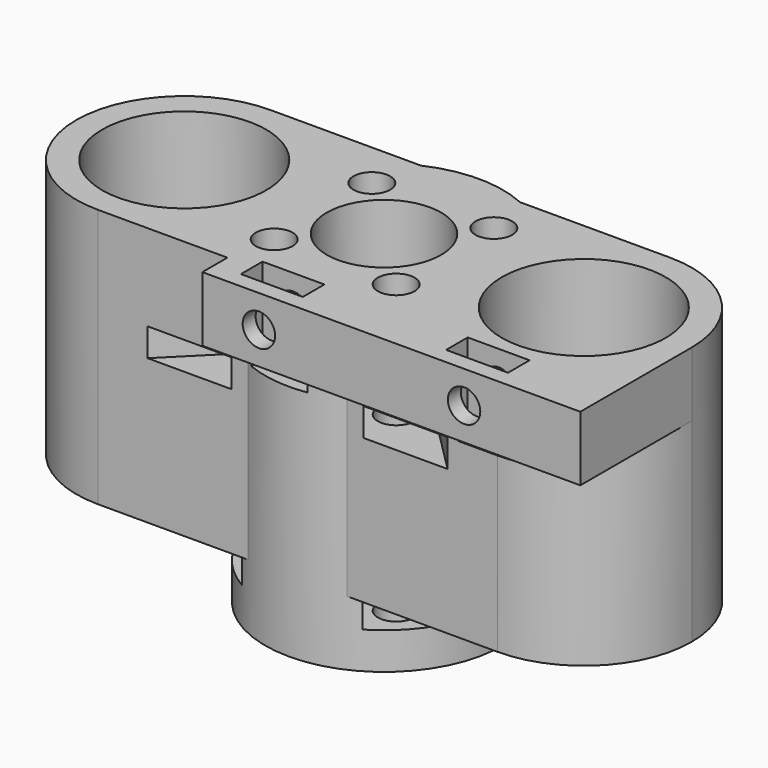
from build123d import *

# Parameters (mm, degrees)
PAD011_DEPTH            = 24
SKETCH036_R             = 5.3
SKETCH036_R_2           = 1.7
POCKET021_DEPTH         = 0.001
POCKET021_DEPTH_BACK    = 24.001
SKETCH034_R             = 11
SKETCH034_R_2           = 5.3
SKETCH034_R_3           = 1.7
PAD012_DEPTH            = 30
SKETCH039_R             = 7.6
SKETCH039_R_2           = 5.3
SKETCH039_R_3           = 1.7
POCKET022_DEPTH         = 30.001
POCKET022_DEPTH_BACK    = 0.001
PAD018_DEPTH            = 6
SKETCH041_W             = 5.73
SKETCH041_H             = 2.5
POCKET023_DEPTH         = 8
SKETCH042_R             = 1.5
POCKET024_DEPTH         = 12.901
POCKET025_DEPTH         = 2.6
LINEARPATTERN_COUNT     = 2
LINEARPATTERN_PITCH     = 16
BODY006_PITCH_ANGLE     = 90
BODY006_PLACEMENT_ANGLE = 90


with BuildPart() as part:
    # Sketch035 → Pad011 (new body)
    with BuildSketch(Plane.YZ):
        with BuildLine():
            Line((-18.499997, 10), (18.500003, 10))
            ThreePointArc((18.500003, -10), (28.500003, 0), (18.500003, 10))
            Line((18.500003, -10), (6.499997, -10))
            Line((-18.499997, -10), (6.499997, -10))
            ThreePointArc((-28.500003, 0), (-25.571069, -7.07107), (-18.499997, -10))
            ThreePointArc((-18.499997, 10), (-25.571069, 7.07107), (-28.500003, 0))
        make_face()
    extrude(amount=PAD011_DEPTH)

    # Sketch036 → Pocket021 (cut, two sides)
    with BuildSketch(Plane.YZ) as pocket021_sk:
        Circle(SKETCH036_R)
        with Locations((-5.65, 5.65)):
            Circle(SKETCH036_R_2)
        with Locations((5.65, 5.65)):
            Circle(SKETCH036_R_2)
        with Locations((5.65, -5.65)):
            Circle(SKETCH036_R_2)
        with Locations((-5.65, -5.65)):
            Circle(SKETCH036_R_2)
    extrude(amount=-POCKET021_DEPTH, mode=Mode.SUBTRACT)
    extrude(pocket021_sk.sketch, amount=POCKET021_DEPTH_BACK, mode=Mode.SUBTRACT)

    # Sketch034 → Pad012 (join)
    with BuildSketch(Plane.YZ):
        Circle(SKETCH034_R)
        Circle(SKETCH034_R_2, mode=Mode.SUBTRACT)
        with Locations((-5.65, 5.65)):
            Circle(SKETCH034_R_3, mode=Mode.SUBTRACT)
        with Locations((5.65, 5.65)):
            Circle(SKETCH034_R_3, mode=Mode.SUBTRACT)
        with Locations((5.65, -5.65)):
            Circle(SKETCH034_R_3, mode=Mode.SUBTRACT)
        with Locations((-5.65, -5.65)):
            Circle(SKETCH034_R_3, mode=Mode.SUBTRACT)
    extrude(amount=PAD012_DEPTH)

    # Sketch039 → Pocket022 (cut, two sides)
    with BuildSketch(Plane.YZ) as pocket022_sk:
        with Locations((18.500003, 0)):
            Circle(SKETCH039_R)
        with Locations((-18.500003, 0)):
            Circle(SKETCH039_R)
        Circle(SKETCH039_R_2)
        with Locations((-5.65, 5.65)):
            Circle(SKETCH039_R_3)
        with Locations((5.65, 5.65)):
            Circle(SKETCH039_R_3)
        with Locations((5.65, -5.65)):
            Circle(SKETCH039_R_3)
        with Locations((-5.65, -5.65)):
            Circle(SKETCH039_R_3)
    extrude(amount=POCKET022_DEPTH, mode=Mode.SUBTRACT)
    extrude(pocket022_sk.sketch, amount=-POCKET022_DEPTH_BACK, mode=Mode.SUBTRACT)

    # Sketch040 → Pad018 (join)
    with BuildSketch(Plane.YZ):
        with BuildLine():
            Line((-28.500003, 0), (-28.500003, -12.9))
            Line((-28.500003, -12.9), (6.499997, -12.9))
            Line((6.499997, -12.9), (6.499997, -10))
            Line((-18.499997, -10), (6.499997, -10))
            ThreePointArc((-28.500003, 0), (-25.571069, -7.07107), (-18.499997, -10))
        make_face()
    extrude(amount=PAD018_DEPTH)

    # Sketch041 → Pocket023 (cut)
    with BuildSketch(Plane.YZ):
        with Locations((-17.735003, -10.15)):
            Rectangle(SKETCH041_W, SKETCH041_H)
        with Locations((1.264997, -10.15)):
            Rectangle(SKETCH041_W, SKETCH041_H)
    extrude(amount=POCKET023_DEPTH, mode=Mode.SUBTRACT)

    # Sketch042 → Pocket024 (cut, through all)
    with BuildSketch(Plane.XY):
        with Locations((3, -17.735003)):
            Circle(SKETCH042_R)
        with Locations((3, 1.264997)):
            Circle(SKETCH042_R)
    extrude(amount=-POCKET024_DEPTH, mode=Mode.SUBTRACT)

    # Sketch038 → Pocket025 (cut)
    with BuildSketch(Plane.YZ.offset(26.6)):
        Polygon((1.259165, 5.148252), (11.865767, 15.754854), (15.754854, 11.865767), (5.148252, 1.259165), align=None)
        Polygon((-1.259165, 5.148252), (-11.865767, 15.754854), (-15.754854, 11.865767), (-5.148252, 1.259165), align=None)
        Polygon((1.259165, -5.148252), (5.148252, -1.259165), (15.754854, -11.865767), (11.865767, -15.754854), align=None)
        Polygon((-1.259165, -5.148252), (-11.865767, -15.754854), (-15.754854, -11.865767), (-5.148252, -1.259165), align=None)
    pocket025 = extrude(amount=-POCKET025_DEPTH, mode=Mode.SUBTRACT)

    # LinearPattern: Pocket025 ×2
    with Locations(*[(-i * LINEARPATTERN_PITCH, 0, 0) for i in range(1, LINEARPATTERN_COUNT)]):
        add(pocket025, mode=Mode.SUBTRACT)


with BuildPart() as part_1:
    # Body006 pitch: moved
    add(part.part.rotate(Axis((0, 0, 0), (0, 1, 0)), BODY006_PITCH_ANGLE))


with BuildPart() as part_2:
    # Body006 placement: moved
    add(part_1.part.moved(Location((0, 0, 30))).rotate(Axis((0, 0, 30), (0, 0, 1)), BODY006_PLACEMENT_ANGLE))


solid = part_2.part
